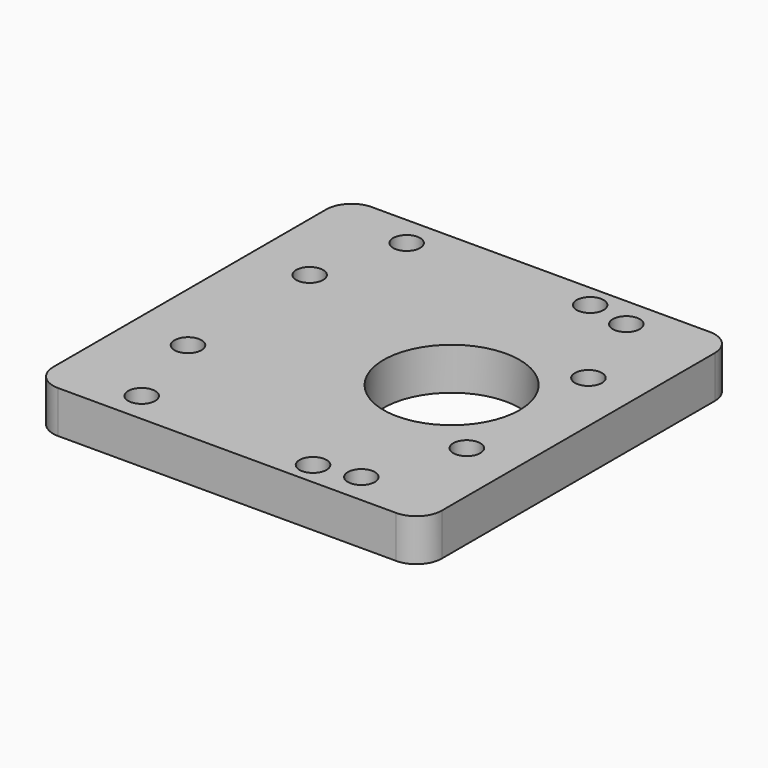
from build123d import *

# Parameters (mm, degrees)
SKETCH_R   = 8.05
SKETCH_R_2 = 1.6
PAD_DEPTH  = 5
FILLET_R   = 3


with BuildPart() as part:
    # Sketch → Pad (new body)
    with BuildSketch(Plane.XY):
        Polygon((15, 16), (15, -16), (15, -23.2), (-31, -23.2), (-31, -16), (-31, 16), (-31, 23.2), (15, 23.2), align=None)
        Circle(SKETCH_R, mode=Mode.SUBTRACT)
        with Locations((-24, 9)):
            Circle(SKETCH_R_2, mode=Mode.SUBTRACT)
        with Locations((-24, -9)):
            Circle(SKETCH_R_2, mode=Mode.SUBTRACT)
        with Locations((9, -9)):
            Circle(SKETCH_R_2, mode=Mode.SUBTRACT)
        with Locations((9, 9)):
            Circle(SKETCH_R_2, mode=Mode.SUBTRACT)
        with Locations((0, 20.5)):
            Circle(SKETCH_R_2, mode=Mode.SUBTRACT)
        with Locations((0, -20.5)):
            Circle(SKETCH_R_2, mode=Mode.SUBTRACT)
        with Locations((-21, 19.6)):
            Circle(SKETCH_R_2, mode=Mode.SUBTRACT)
        with Locations((5, 19.6)):
            Circle(SKETCH_R_2, mode=Mode.SUBTRACT)
        with Locations((-21, -19.6)):
            Circle(SKETCH_R_2, mode=Mode.SUBTRACT)
        with Locations((5, -19.6)):
            Circle(SKETCH_R_2, mode=Mode.SUBTRACT)
    extrude(amount=PAD_DEPTH)

    # Fillet
    fillet_edges = [part.edges().sort_by_distance(p)[0] for p in [
        (-31, -23.2, 2.5),
        (-31, 23.2, 2.5),
        (15, 23.2, 2.5),
        (15, -23.2, 2.5),
    ]]
    fillet(fillet_edges, radius=FILLET_R)


solid = part.part
